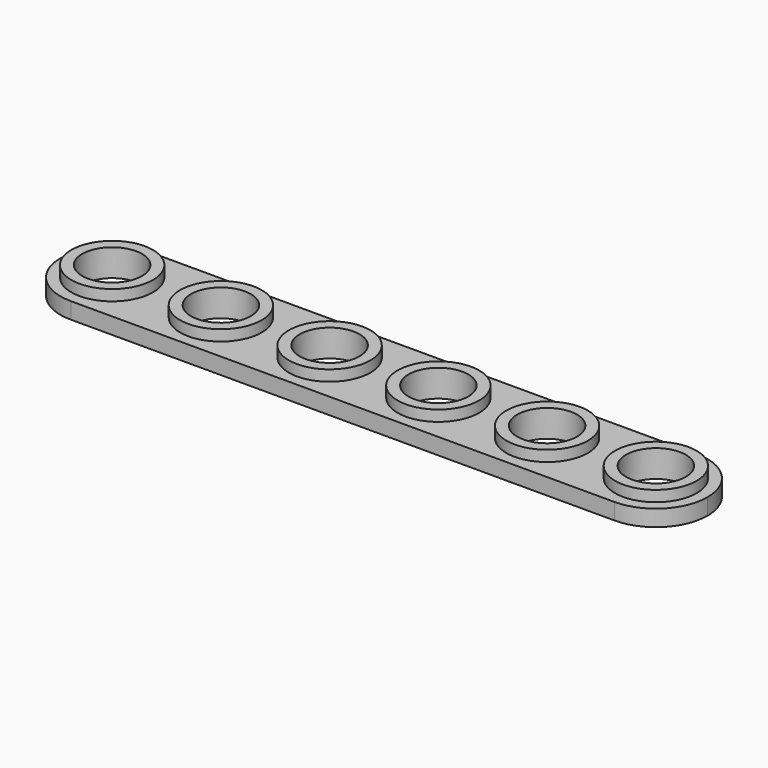
from build123d import *

# Parameters (mm, degrees)
F0_R     = 7.5
F1_DEPTH = 3
F0_R_2   = 5.5
F2_DEPTH = 5
F3_ANGLE = 270


with BuildPart() as f1:
    # F0 (on Top) → F1 (new body)
    with BuildSketch(Plane.XY):
        with BuildLine():
            Line((100, 9.5), (0, 9.5))
            ThreePointArc((0, 9.5), (-6.717514, 6.717514), (-9.5, 0))
            ThreePointArc((-9.5, 0), (-6.717514, -6.717514), (0, -9.5))
            Line((0, -9.5), (100, -9.5))
            ThreePointArc((100, -9.5), (106.717514, -6.717514), (109.5, 0))
            ThreePointArc((109.5, 0), (106.717514, 6.717514), (100, 9.5))
        make_face()
        Circle(F0_R, mode=Mode.SUBTRACT)
        with Locations((20, 0)):
            Circle(F0_R, mode=Mode.SUBTRACT)
        with Locations((40, 0)):
            Circle(F0_R, mode=Mode.SUBTRACT)
        with Locations((60, 0)):
            Circle(F0_R, mode=Mode.SUBTRACT)
        with Locations((80, 0)):
            Circle(F0_R, mode=Mode.SUBTRACT)
        with Locations((100, 0)):
            Circle(F0_R, mode=Mode.SUBTRACT)
    extrude(amount=F1_DEPTH)

    # F0 (on Top) → F2 (join)
    with BuildSketch(Plane.XY):
        Circle(F0_R)
        Circle(F0_R_2, mode=Mode.SUBTRACT)
        with Locations((20, 0)):
            Circle(F0_R)
        with Locations((20, 0)):
            Circle(F0_R_2, mode=Mode.SUBTRACT)
        with Locations((40, 0)):
            Circle(F0_R)
        with Locations((40, 0)):
            Circle(F0_R_2, mode=Mode.SUBTRACT)
        with Locations((60, 0)):
            Circle(F0_R)
        with Locations((60, 0)):
            Circle(F0_R_2, mode=Mode.SUBTRACT)
        with Locations((80, 0)):
            Circle(F0_R)
        with Locations((80, 0)):
            Circle(F0_R_2, mode=Mode.SUBTRACT)
        with Locations((100, 0)):
            Circle(F0_R)
        with Locations((100, 0)):
            Circle(F0_R_2, mode=Mode.SUBTRACT)
    extrude(amount=F2_DEPTH)


with BuildPart() as f3_1:
    # F3: copy of F1
    add(f1.part.rotate(Axis((0, 0, 0), (0, 0, -1)), F3_ANGLE))


with BuildPart() as f3_1_1:
    # F4: moved
    add(f3_1.part.moved(Location((20, 0, 0))))


solid = f1.part
